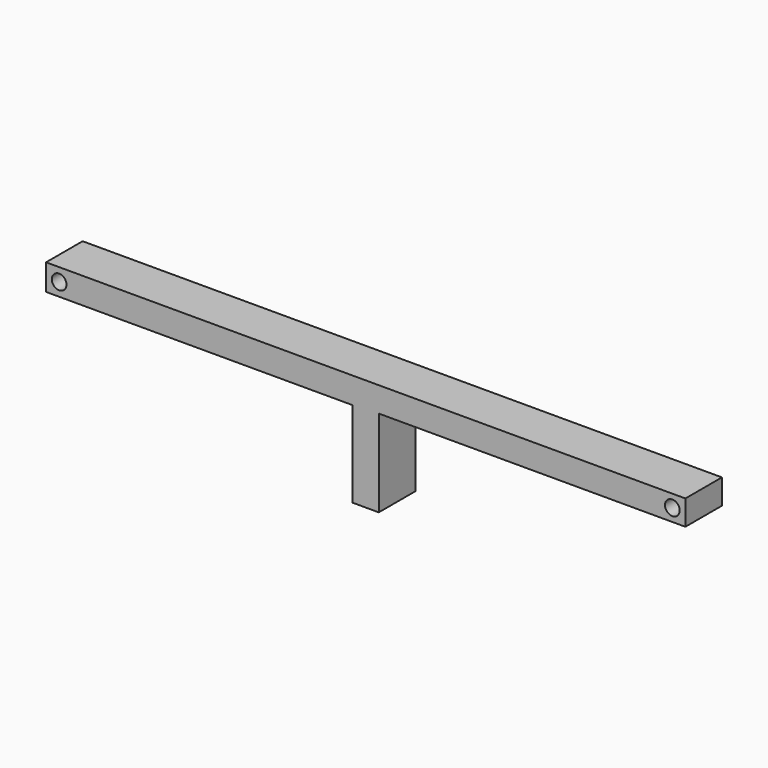
from build123d import *

# Parameters (mm, degrees)
F0_R     = 7.14375
F1_DEPTH = 44.45


with BuildPart() as f1:
    # F0 (on Front) → F1 (new body)
    with BuildSketch(Plane.XZ):
        Polygon((622.3, 0), (0, 0), (0, -25.4), (298.45, -25.4), (298.45, -108.9914), (323.85, -108.9914), (323.85, -24.290398), (622.3, -24.290398), align=None)
        with Locations((12.7, -12.7)):
            Circle(F0_R, mode=Mode.SUBTRACT)
        with Locations((609.6, -12.145199)):
            Circle(F0_R, mode=Mode.SUBTRACT)
    extrude(amount=F1_DEPTH)


solid = f1.part
